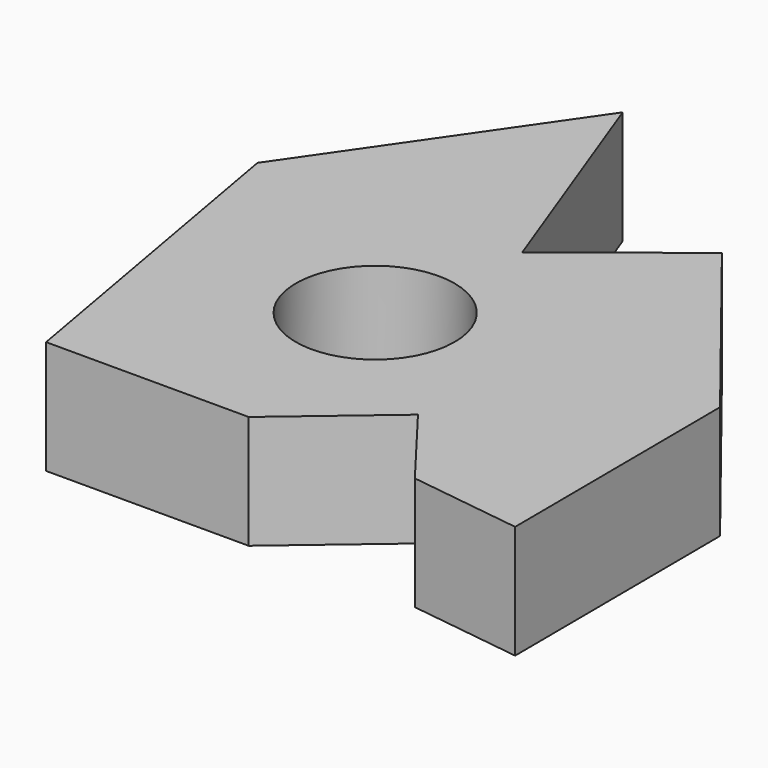
from build123d import *

# Parameters (mm, degrees)
F0_R     = 28
F1_DEPTH = 40


with BuildPart() as f1:
    # F0 (on Top) → F1 (new body)
    with BuildSketch(Plane.XY):
        Polygon((9.154122, 38.047662), (-21.428861, 120.562395), (-81.148129, 34.199156), (-59.806864, -85.664271), (11.654246, -85.664271), (47.193136, -55.460588), (70.252571, -85.664271), (109.89531, -90.99843), (109.360786, 0), (52.295068, 72.163037), align=None)
        with Locations((0, -15.341791)):
            Circle(F0_R, mode=Mode.SUBTRACT)
    extrude(amount=F1_DEPTH)


solid = f1.part
